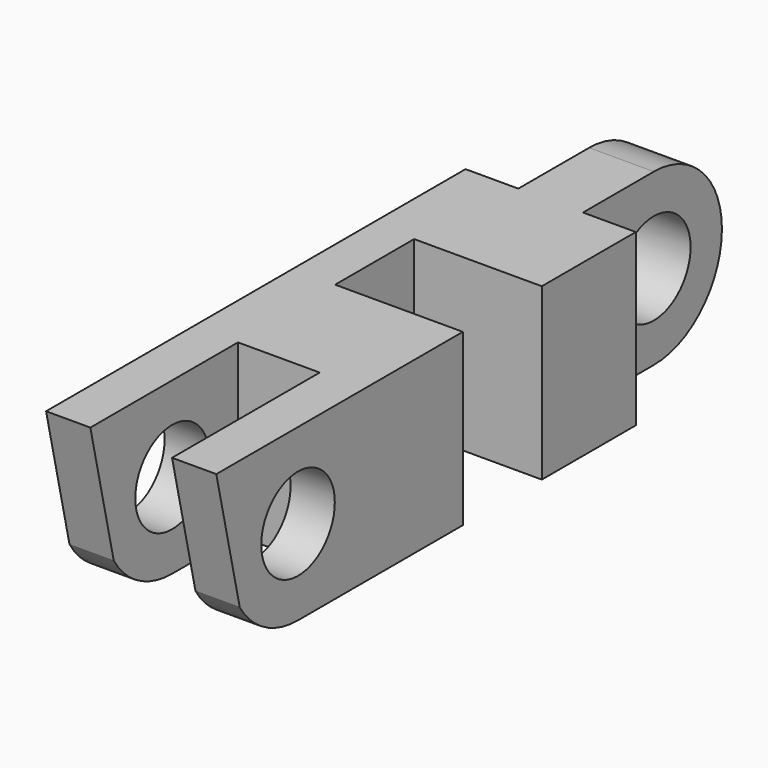
from build123d import *

# Parameters (mm, degrees)
F0_R     = 3.429
F1_DEPTH = 12.7
F2_W     = 6.096
F2_H     = 21.723506
F2_W_2   = 3.937
F2_H_2   = 13.240079
F3_DEPTH = 25.4
F4_W     = 7.366
F4_H     = 12.7
F5_DEPTH = 9.525
F6_R     = 2.63525
F7_DEPTH = 25.4


with BuildPart() as f1:
    # F0 (on Right) → F1 (new body)
    with BuildSketch(Plane.YZ):
        with BuildLine():
            ThreePointArc((0.913208, 3.069178), (3.228359, 0.820275), (6.35, 0))
            Line((6.35, 0), (44.45, 0))
            ThreePointArc((44.45, 0), (48.940128, 1.859872), (50.8, 6.35))
            ThreePointArc((50.8, 6.35), (48.940128, 10.840128), (44.45, 12.7))
            Line((44.45, 12.7), (0, 12.7))
            Line((0, 12.7), (-1.27, 12.7))
            Line((-1.27, 12.7), (0.913208, 3.069178))
        make_face()
        with Locations((6.35, 6.35)):
            Circle(F0_R, mode=Mode.SUBTRACT)
        with Locations((44.45, 6.35)):
            Circle(F0_R, mode=Mode.SUBTRACT)
    extrude(amount=F1_DEPTH)

    # F2 (on face) → F3 (cut)
    with BuildSketch(Plane.XY.offset(12.7)):
        with Locations((6.35, 1.635321)):
            Rectangle(F2_W, F2_H)
        with Locations((1.9685, 44.466039)):
            Rectangle(F2_W_2, F2_H_2)
        with Locations((10.7315, 44.466039)):
            Rectangle(F2_W_2, F2_H_2)
    extrude(amount=-F3_DEPTH, mode=Mode.SUBTRACT)

    # F4 (on face) → F5 (cut)
    with BuildSketch(Plane.YZ.offset(12.7)):
        with Locations((25.4, 6.35)):
            Rectangle(F4_W, F4_H)
    extrude(amount=-F5_DEPTH, mode=Mode.SUBTRACT)

    # F6 (on face) → F7 (cut)
    with BuildSketch(Plane.YZ.offset(3.175)):
        with Locations((25.291821, 6.35)):
            Circle(F6_R)
    extrude(amount=-F7_DEPTH, mode=Mode.SUBTRACT)


solid = f1.part
